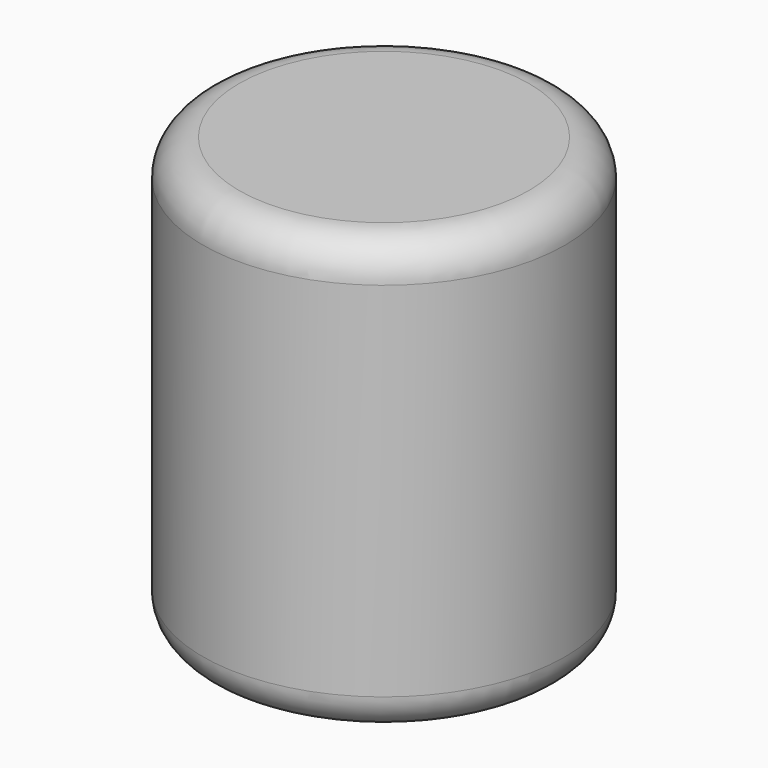
from build123d import *

# Parameters (mm, degrees)
F0_W = 25
F0_H = 60
F2_R = 5


with BuildPart() as f1:
    # F0 (on Front) → F1 (revolve)
    with BuildSketch(Plane.XZ):
        with Locations((-12.5, 30)):
            Rectangle(F0_W, F0_H)
    revolve(axis=Axis((0, 0, 30), (0, 0, 1)))

    # F2
    f2_edges = [f1.edges().sort_by_distance(p)[0] for p in [
        (25, 0, 60),
        (25, 0, 0),
    ]]
    fillet(f2_edges, radius=F2_R)


solid = f1.part
